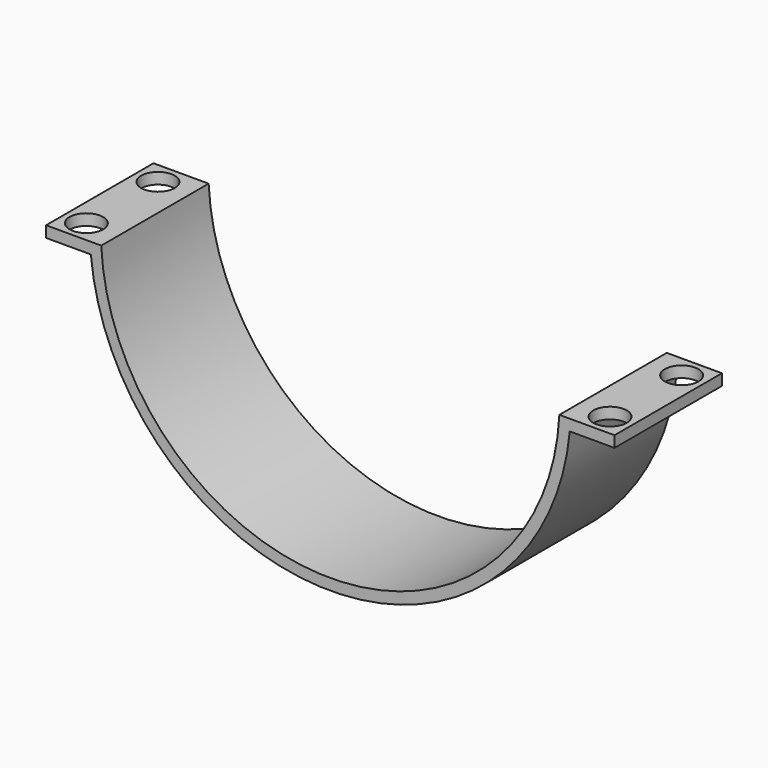
from build123d import *

# Parameters (mm, degrees)
F1_DEPTH = 76.2
F3_D     = 19.05


with BuildPart() as f1:
    # F0 (on Front) → F1 (new body)
    with BuildSketch(Plane.XZ):
        with BuildLine():
            Line((-161.333019, -6.35), (-135.933019, -6.35))
            ThreePointArc((-135.933019, -6.35), (0, -130.175), (135.933019, -6.35))
            Line((135.933019, -6.35), (161.333019, -6.35))
            Line((161.333019, -6.35), (161.333019, 0))
            Line((161.333019, 0), (130.02003, 0))
            ThreePointArc((130.02003, 0), (0, -123.825), (-130.02003, 0))
            Line((-130.02003, 0), (-161.333019, 0))
            Line((-161.333019, 0), (-161.333019, -6.35))
        make_face()
    extrude(amount=F1_DEPTH)

    # F3 (through all)
    with Locations(Plane.XY):
        with Locations((-148.633019, -63.5), (-148.633019, -12.7), (148.633019, -63.5), (148.633019, -12.7)):
            Hole(F3_D / 2)


solid = f1.part
